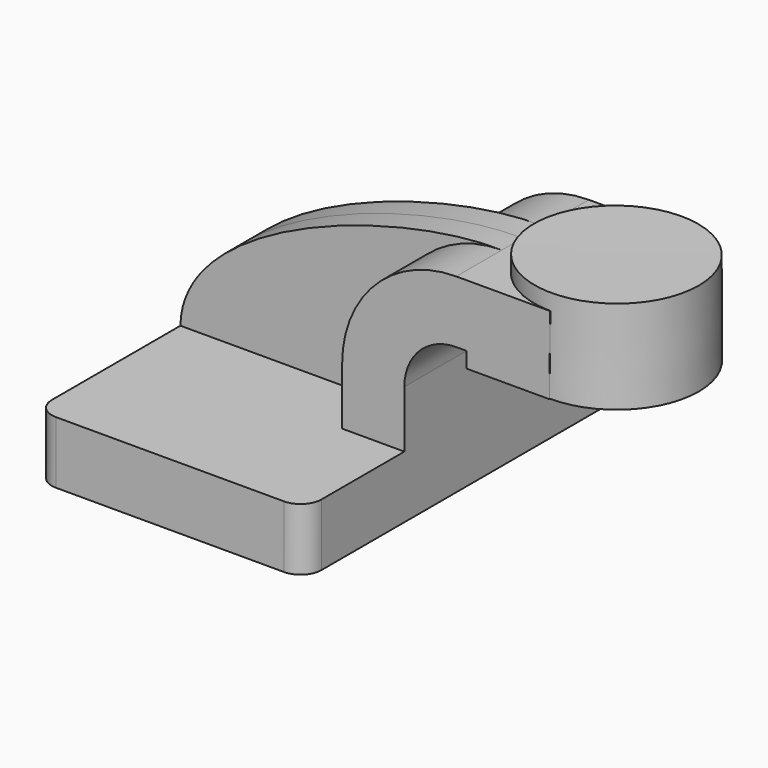
from build123d import *

# Parameters (mm, degrees)
F1_DEPTH = 63.5
F2_DEPTH = 25.4
F3_DEPTH = 7.9375
F5_R     = 6.35


with BuildPart() as f1:
    # F0 (on Front) → F1 (new body, symmetric)
    with BuildSketch(Plane.XZ):
        Polygon((-41.275, 9.525), (-41.275, -9.525), (41.275, -9.525), (41.275, 9.525), (22.225, 9.525), align=None)
    extrude(amount=F1_DEPTH, both=True)

    # F0 (on Front) → F2 (join, symmetric)
    with BuildSketch(Plane.XZ):
        with BuildLine():
            Line((22.225, 9.525), (41.275, 9.525))
            Line((41.275, 9.525), (41.275, 27.0002))
            ThreePointArc((41.275, 27.0002), (45.9246798487, 38.2255201513), (57.15, 42.8752))
            Line((57.15, 42.8752), (60.325, 42.8752))
            Line((60.325, 42.8752), (60.325, 61.9252))
            Line((60.325, 61.9252), (57.15, 61.9252))
            ThreePointArc((57.15, 61.9252), (32.4542956671, 51.6959043329), (22.225, 27.0002))
            Line((22.225, 27.0002), (22.225, 9.525))
        make_face()
        Polygon((75.878282736, 61.9252), (60.325, 61.9252), (60.325, 42.8752), (60.325, 38.1), (85.725, 38.1), (85.8768074448, 61.9252), align=None)
    extrude(amount=F2_DEPTH, both=True)

    # F0 (on Front) → F3 (join, symmetric)
    with BuildSketch(Plane.XZ):
        with BuildLine():
            add(Edge.make_bspline(
                [(-41.275, 9.525), (-40.8265404403, 41.2002727389), (25.646481663, 62.6290813088), (57.15, 61.9252)],
                knots=[0, 0, 0, 0, 111.5045361635, 111.5045361635, 111.5045361635, 111.5045361635], degree=3))
            Line((-41.275, 9.525), (22.225, 9.525))
            Line((22.225, 9.525), (22.225, 27.0002))
            ThreePointArc((22.225, 27.0002), (32.4542956671, 51.6959043329), (57.15, 61.9252))
        make_face()
    extrude(amount=F3_DEPTH, both=True)

    # F0 (on Front) → F4 (revolve)
    with BuildSketch(Plane.XZ):
        Polygon((111.125, 66.675), (85.9070718288, 66.675), (85.8768074448, 61.9252), (85.725, 38.1), (111.125, 38.1), align=None)
    revolve(axis=Axis((85.8160359144, 0, 52.3875), (0.0063715882, 0, 0.9999797012)))

    # F5
    f5_edges = [f1.edges().sort_by_distance(p)[0] for p in [
        (41.275, -63.5, 0),
        (-41.275, -63.5, 0),
        (41.275, 63.5, 0),
        (-41.275, 63.5, 0),
    ]]
    fillet(f5_edges, radius=F5_R)


solid = f1.part
